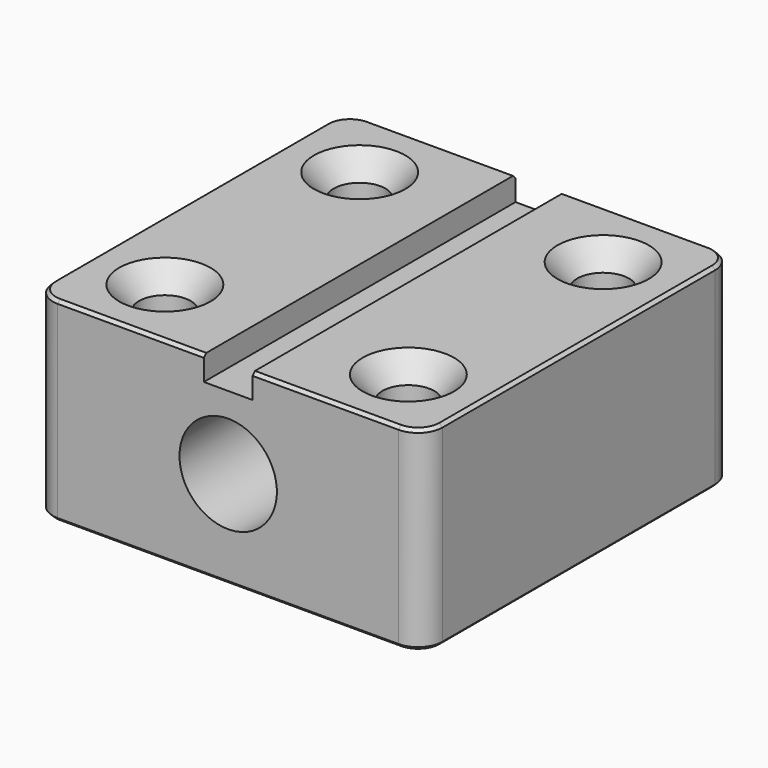
from build123d import *

# Parameters (mm, degrees)
F1_DEPTH       = 50.8
F3_D           = 13.49248
F3_CSINK_D     = 23.8252
F3_CSINK_ANGLE = 82
F4_R           = 6.35
F5_SIZE        = 0.8128
F7_D           = 25.4


with BuildPart() as f1:
    # F0 (on Front) → F1 (new body, symmetric)
    with BuildSketch(Plane.XZ):
        Polygon((-6.35, 25.4), (-50.8, 25.4), (-50.8, -25.4), (50.8, -25.4), (50.8, 25.4), (6.35, 25.4), (6.35, 19.05), (0, 19.05), (-6.35, 19.05), align=None)
    extrude(amount=F1_DEPTH, both=True)

    # F3 (through all)
    with Locations(Plane.XY.offset(25.4)):
        with Locations((-31.75, 31.75), (31.75, 31.75), (-31.75, -31.75), (31.75, -31.75)):
            CounterSinkHole(F3_D / 2, F3_CSINK_D / 2, counter_sink_angle=F3_CSINK_ANGLE)

    # F4
    f4_edges = [f1.edges().sort_by_distance(p)[0] for p in [
        (-50.8, 50.8, 0),
        (-50.8, -50.8, 0),
        (50.8, -50.8, 0),
        (50.8, 50.8, 0),
    ]]
    fillet(f4_edges, radius=F4_R)

    # F5
    f5_edges = [f1.edges().sort_by_distance(p)[0] for p in [
        (50.8, 0, 25.4),
        (-25.4, 50.8, 25.4),
        (25.4, 50.8, 25.4),
        (-50.8, 0, 25.4),
        (-25.4, -50.8, 25.4),
        (25.4, -50.8, 25.4),
        (-50.8, 0, -25.4),
        (-48.940128, 48.940128, -25.4),
        (-48.940128, -48.940128, -25.4),
        (0, 50.8, -25.4),
        (0, -50.8, -25.4),
        (48.940128, 48.940128, -25.4),
        (48.940128, -48.940128, -25.4),
        (50.8, 0, -25.4),
        (-38.49624, 31.75, -25.4),
        (25.00376, 31.75, -25.4),
        (-38.49624, -31.75, -25.4),
        (25.00376, -31.75, -25.4),
    ]]
    chamfer(f5_edges, length=F5_SIZE)

    # F7 (through all)
    with Locations(Plane.XZ.offset(50.8)):
        with Locations((0, 0)):
            Hole(F7_D / 2)


solid = f1.part
